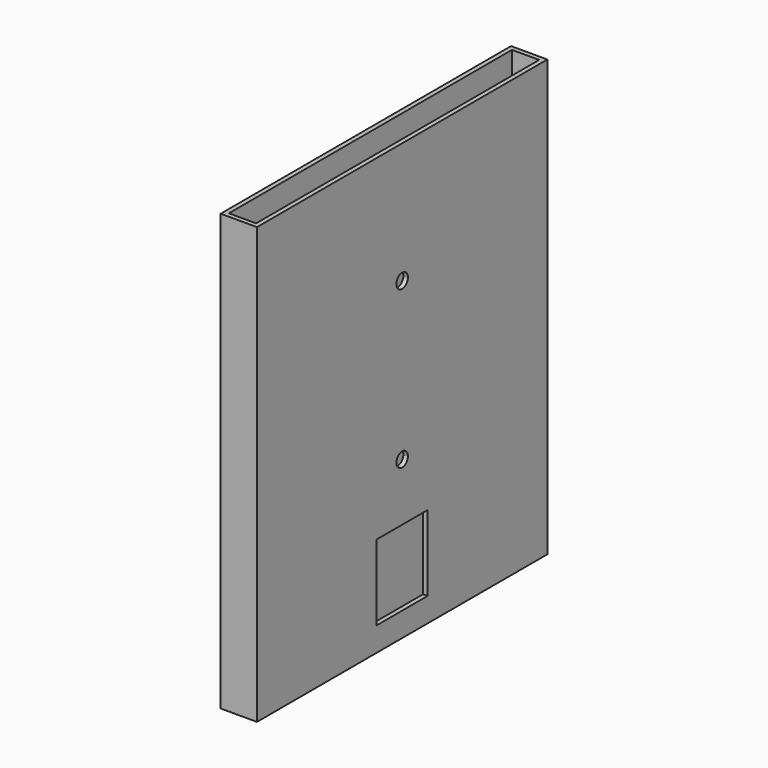
from build123d import *

# Parameters (mm, degrees)
F0_W     = 152.4
F0_H     = 1524
F0_W_2   = 114.3
F0_H_2   = 1485.9
F1_DEPTH = 1828.8
F3_DEPTH = 25.4
F5_DEPTH = 25.4


with BuildPart() as f1:
    # F0 (on Top) → F1 (new body)
    with BuildSketch(Plane.XY):
        Rectangle(F0_W, F0_H)
        Rectangle(F0_W_2, F0_H_2, mode=Mode.SUBTRACT)
    extrude(amount=F1_DEPTH)

    # F2 (on face) → F3 (cut)
    with BuildSketch(Plane.YZ.offset(76.2)):
        Polygon((-133.35, 101.6), (0, 101.6), (0, 260.35), (0, 419.1), (-133.35, 419.1), align=None)
        Polygon((0, 260.35), (0, 101.6), (133.35, 101.6), (133.35, 419.1), (0, 419.1), align=None)
        with BuildLine():
            ThreePointArc((30.1625, 660.4), (-21.328108, 681.728108), (0, 630.2375))
            ThreePointArc((0, 630.2375), (21.328108, 639.071892), (30.1625, 660.4))
        make_face()
        with BuildLine():
            ThreePointArc((30.1625, 1320.8), (21.328108, 1342.128108), (0, 1350.9625))
            ThreePointArc((0, 1350.9625), (-21.328108, 1299.471892), (30.1625, 1320.8))
        make_face()
    extrude(amount=-F3_DEPTH, mode=Mode.SUBTRACT)

    # F4 (on face) → F5 (cut)
    with BuildSketch(Plane(origin=(-76.2, 0, 0), x_dir=(0, -1, 0), z_dir=(-1, 0, 0))):
        with BuildLine():
            ThreePointArc((30.1625, 1320.8), (21.328108, 1342.128108), (0, 1350.9625))
            ThreePointArc((0, 1350.9625), (-21.328108, 1299.471892), (30.1625, 1320.8))
        make_face()
        with BuildLine():
            ThreePointArc((30.1625, 660.4), (-21.328108, 681.728108), (0, 630.2375))
            ThreePointArc((0, 630.2375), (21.328108, 639.071892), (30.1625, 660.4))
        make_face()
    extrude(amount=-F5_DEPTH, mode=Mode.SUBTRACT)


solid = f1.part
